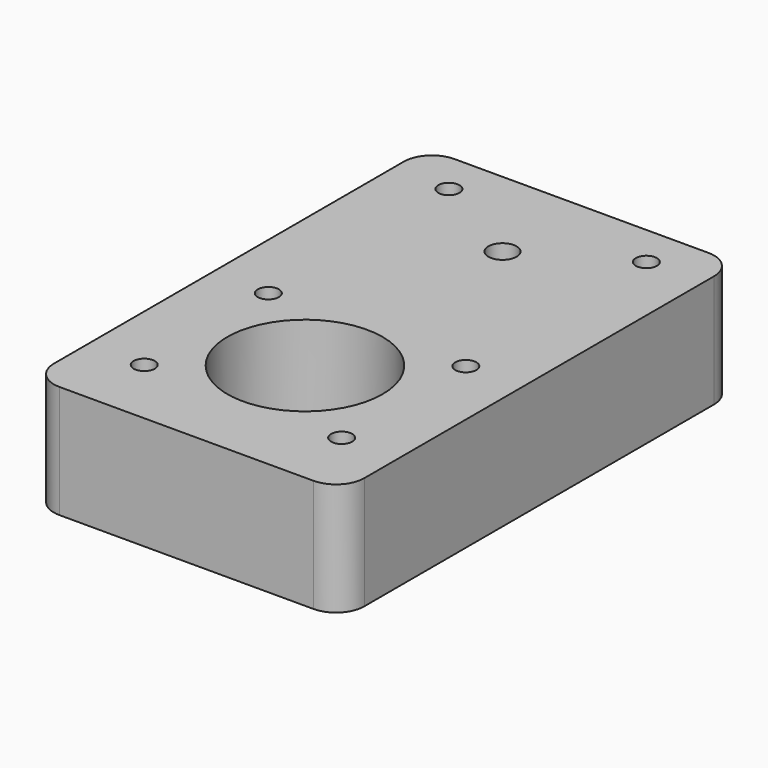
from build123d import *

# Parameters (mm, degrees)
F0_R     = 2.3749
F0_R_2   = 17.4625
F0_R_3   = 3.175
F1_DEPTH = 25.4


with BuildPart() as f1:
    # F0 (on Top) → F1 (new body)
    with BuildSketch(Plane.XY):
        with BuildLine():
            ThreePointArc((0, 6.35), (1.859872, 1.859872), (6.35, 0))
            Line((6.35, 0), (63.5, 0))
            ThreePointArc((63.5, 0), (67.990128, 1.859872), (69.85, 6.35))
            Line((69.85, 6.35), (69.85, 104.775))
            ThreePointArc((69.85, 104.775), (67.990128, 109.265128), (63.5, 111.125))
            Line((63.5, 111.125), (6.35, 111.125))
            ThreePointArc((6.35, 111.125), (1.859872, 109.265128), (0, 104.775))
            Line((0, 104.775), (0, 6.35))
        make_face()
        with Locations((12.7, 15.875)):
            Circle(F0_R, mode=Mode.SUBTRACT)
        with Locations((12.7, 50.8)):
            Circle(F0_R, mode=Mode.SUBTRACT)
        with Locations((57.15, 15.875)):
            Circle(F0_R, mode=Mode.SUBTRACT)
        with Locations((34.925, 33.3248)):
            Circle(F0_R_2, mode=Mode.SUBTRACT)
        with Locations((57.15, 50.8)):
            Circle(F0_R, mode=Mode.SUBTRACT)
        with Locations((12.7, 101.6)):
            Circle(F0_R, mode=Mode.SUBTRACT)
        with Locations((34.925, 88.9)):
            Circle(F0_R_3, mode=Mode.SUBTRACT)
        with Locations((57.15, 101.6)):
            Circle(F0_R, mode=Mode.SUBTRACT)
    extrude(amount=F1_DEPTH)


solid = f1.part
